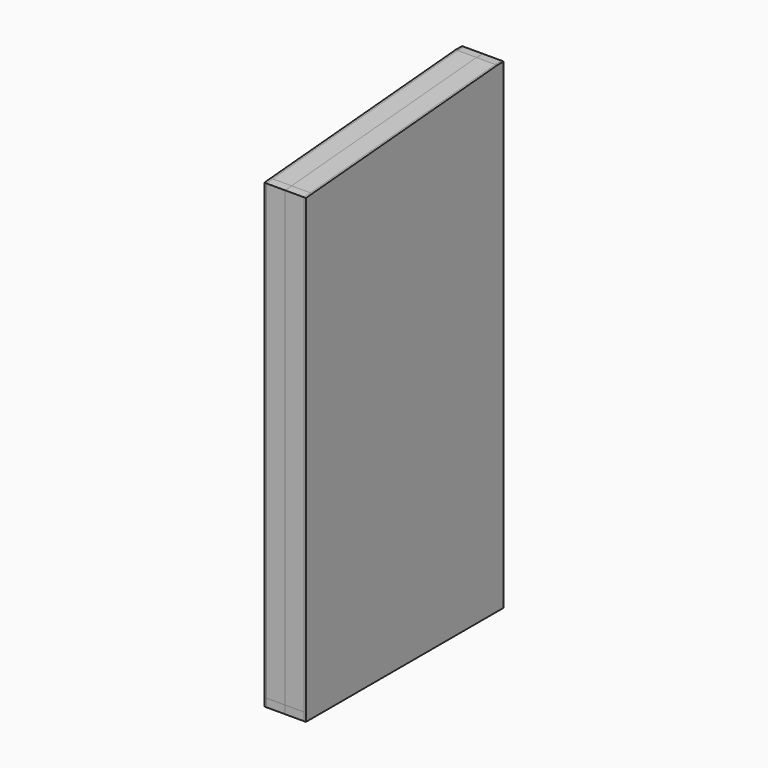
from build123d import *

# Parameters (mm, degrees)
F1_DEPTH = 88.9
F2_DEPTH = 88.9
F4_DEPTH = 9.525


with BuildPart() as f1:
    # F0 (on Right) → F1 (new body)
    with BuildSketch(Plane.YZ):
        Polygon((-584.2, 1043.4293814433), (-584.2, -1098.55), (-546.1, -1098.55), (-546.1, 1008.3422910222), (-546.1, 1046.5716494845), align=None)
    extrude(amount=F1_DEPTH)


with BuildPart() as f1b:
    # F0 (on Right) → F1, piece 2 (new body)
    with BuildSketch(Plane.YZ):
        Polygon((546.1, -1098.55), (584.2, -1098.55), (584.2, 1136.65), (546.1, 1136.65), (546.1, 1098.4206415376), align=None)
    extrude(amount=F1_DEPTH)


with BuildPart() as f1c:
    # F0 (on Right) → F1, piece 3 (new body)
    with BuildSketch(Plane.YZ):
        Polygon((139.7, -1098.55), (177.8, -1098.55), (177.8, 1068.0453838057), (139.7, 1064.9031157645), align=None)
    extrude(amount=F1_DEPTH)


with BuildPart() as f1d:
    # F0 (on Right) → F1, piece 4 (new body)
    with BuildSketch(Plane.YZ):
        Polygon((-266.7, 1031.3855899913), (-266.7, -1098.55), (-228.6, -1098.55), (-228.6, 1034.5278580325), align=None)
    extrude(amount=F1_DEPTH)


with BuildPart() as f2:
    # F0 (on Right) → F2 (new body)
    with BuildSketch(Plane.YZ):
        Polygon((177.8, 1068.0453838057), (546.1, 1098.4206415376), (546.1, 1136.65), (-546.1, 1046.5716494845), (-546.1, 1008.3422910222), (-266.7, 1031.3855899913), (-266.7, 1034.5278580325), (-228.6, 1034.5278580325), (139.7, 1064.9031157645), (139.7, 1068.0453838057), align=None)
        Polygon((139.7, 1064.9031157645), (177.8, 1068.0453838057), (139.7, 1068.0453838057), align=None)
        Polygon((-266.7, 1034.5278580325), (-266.7, 1031.3855899913), (-228.6, 1034.5278580325), align=None)
    extrude(amount=F2_DEPTH)


with BuildPart() as f2b:
    # F0 (on Right) → F2, piece 2 (new body)
    with BuildSketch(Plane.YZ):
        Polygon((-584.2, -1136.65), (584.2, -1136.65), (584.2, -1098.55), (546.1, -1098.55), (177.8, -1098.55), (139.7, -1098.55), (-228.6, -1098.55), (-266.7, -1098.55), (-546.1, -1098.55), (-584.2, -1098.55), align=None)
    extrude(amount=F2_DEPTH)


with BuildPart() as f4:
    # F3 (on face) → F4 (new body)
    with BuildSketch(Plane.YZ.offset(88.9)):
        Polygon((584.2, 1136.65), (546.1, 1136.65), (-584.2, 1043.4293814433), (-584.2, -1136.65), (584.2, -1136.65), align=None)
    extrude(amount=F4_DEPTH)


with BuildPart() as f5_1:
    # F5: instance of F1b
    add(f1b.part.mirror(Plane.YZ))


with BuildPart() as f5_2:
    # F5: instance of F1
    add(f1.part.mirror(Plane.YZ))


with BuildPart() as f5_3:
    # F5: instance of F2b
    add(f2b.part.mirror(Plane.YZ))


with BuildPart() as f5_4:
    # F5: instance of F2
    add(f2.part.mirror(Plane.YZ))


with BuildPart() as f5_5:
    # F5: instance of F4
    add(f4.part.mirror(Plane.YZ))


solid = Compound([f1.part, f1b.part, f1c.part, f1d.part, f2.part, f2b.part, f4.part, f5_1.part, f5_2.part, f5_3.part, f5_4.part, f5_5.part])
